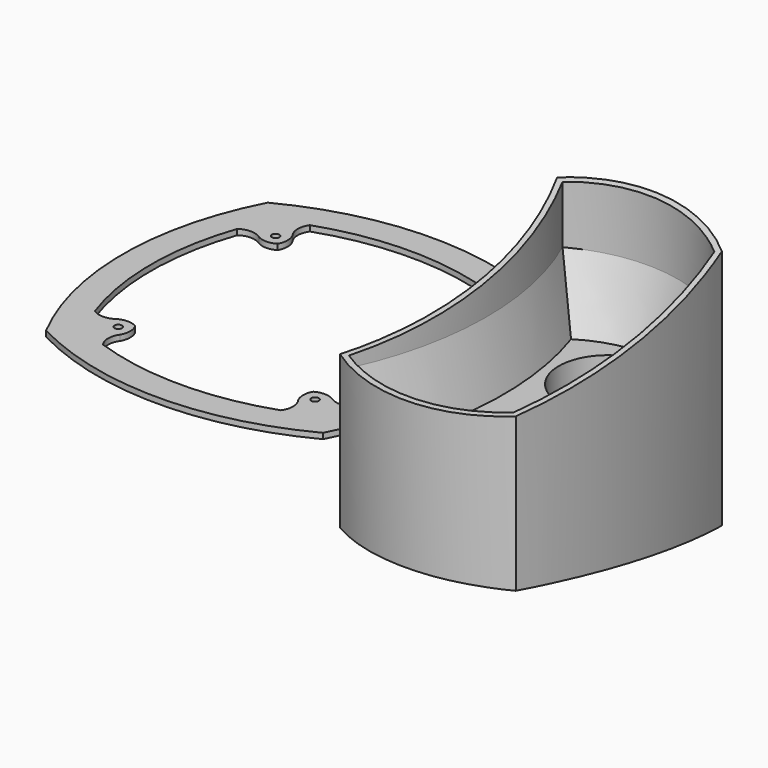
from build123d import *

# Parameters (mm, degrees)
F0_R     = 2
F1_DEPTH = 1.5
F3_DEPTH = 70
F4_R     = 1379.34181
F5_DEPTH = 1210
F2_R     = 31.19375
F2_R_2   = 26.19375
F6_DEPTH = 35


with BuildPart() as f1:
    # F0 (on Top) → F1 (new body, symmetric)
    with BuildSketch(Plane.XY):
        with BuildLine():
            ThreePointArc((73.933257, -73.933257), (92.039376, 0), (73.933257, 73.933257))
            ThreePointArc((73.933257, 73.933257), (0, 92.039376), (-73.933257, 73.933257))
            ThreePointArc((-73.933257, 73.933257), (-92.039376, 0), (-73.933257, -73.933257))
            ThreePointArc((-73.933257, -73.933257), (0, -92.039376), (73.933257, -73.933257))
        make_face()
        with BuildLine():
            ThreePointArc((47.5, 69.038464), (55.217238, 66.114193), (62.755609, 62.755609))
            ThreePointArc((62.755609, 62.755609), (66.114193, 55.217238), (69.038464, 47.5))
            ThreePointArc((69.038464, 47.5), (77.039376, 0), (69.038464, -47.5))
            ThreePointArc((69.038464, -47.5), (66.114193, -55.217238), (62.755609, -62.755609))
            ThreePointArc((62.755609, -62.755609), (55.217238, -66.114193), (47.5, -69.038464))
            ThreePointArc((47.5, -69.038464), (0, -77.039376), (-47.5, -69.038464))
            ThreePointArc((-47.5, -69.038464), (-55.217238, -66.114193), (-62.755609, -62.755609))
            ThreePointArc((-62.755609, -62.755609), (-66.114193, -55.217238), (-69.038464, -47.5))
            ThreePointArc((-69.038464, -47.5), (-77.039376, 0), (-69.038464, 47.5))
            ThreePointArc((-69.038464, 47.5), (-66.114193, 55.217238), (-62.755609, 62.755609))
            ThreePointArc((-62.755609, 62.755609), (-55.217238, 66.114193), (-47.5, 69.038464))
            ThreePointArc((-47.5, 69.038464), (0, 77.039376), (47.5, 69.038464))
        make_face(mode=Mode.SUBTRACT)
        with BuildLine():
            ThreePointArc((-47.5, 57.5), (-49.332016, 63.269232), (-47.5, 69.038464))
            ThreePointArc((-47.5, 69.038464), (-55.217238, 66.114193), (-62.755609, 62.755609))
            ThreePointArc((-62.755609, 62.755609), (-66.114193, 55.217238), (-69.038464, 47.5))
            ThreePointArc((-69.038464, 47.5), (-63.269232, 49.332016), (-57.5, 47.5))
            ThreePointArc((-57.5, 47.5), (-58.839746, 52.5), (-57.5, 57.5))
            ThreePointArc((-57.5, 57.5), (-52.5, 58.839746), (-47.5, 57.5))
        make_face()
        with BuildLine():
            ThreePointArc((-47.5, 47.5), (-46.160254, 52.5), (-47.5, 57.5))
            ThreePointArc((-47.5, 57.5), (-52.5, 58.839746), (-57.5, 57.5))
            ThreePointArc((-57.5, 57.5), (-58.839746, 52.5), (-57.5, 47.5))
            ThreePointArc((-57.5, 47.5), (-52.5, 46.160254), (-47.5, 47.5))
        make_face()
        with Locations((-52.5, 52.5)):
            Circle(F0_R, mode=Mode.SUBTRACT)
        with BuildLine():
            ThreePointArc((69.038464, 47.5), (66.114193, 55.217238), (62.755609, 62.755609))
            ThreePointArc((62.755609, 62.755609), (55.217238, 66.114193), (47.5, 69.038464))
            ThreePointArc((47.5, 69.038464), (49.332016, 63.269232), (47.5, 57.5))
            ThreePointArc((47.5, 57.5), (52.5, 58.839746), (57.5, 57.5))
            ThreePointArc((57.5, 57.5), (58.839746, 52.5), (57.5, 47.5))
            ThreePointArc((57.5, 47.5), (63.269232, 49.332016), (69.038464, 47.5))
        make_face()
        with BuildLine():
            ThreePointArc((57.5, 57.5), (52.5, 58.839746), (47.5, 57.5))
            ThreePointArc((47.5, 57.5), (46.160254, 52.5), (47.5, 47.5))
            ThreePointArc((47.5, 47.5), (52.5, 46.160254), (57.5, 47.5))
            ThreePointArc((57.5, 47.5), (58.839746, 52.5), (57.5, 57.5))
        make_face()
        with Locations((52.5, 52.5)):
            Circle(F0_R, mode=Mode.SUBTRACT)
        with BuildLine():
            ThreePointArc((62.755609, -62.755609), (66.114193, -55.217238), (69.038464, -47.5))
            ThreePointArc((69.038464, -47.5), (63.269232, -49.332016), (57.5, -47.5))
            ThreePointArc((57.5, -47.5), (58.839746, -52.5), (57.5, -57.5))
            ThreePointArc((57.5, -57.5), (52.5, -58.839746), (47.5, -57.5))
            ThreePointArc((47.5, -57.5), (49.332016, -63.269232), (47.5, -69.038464))
            ThreePointArc((47.5, -69.038464), (55.217238, -66.114193), (62.755609, -62.755609))
        make_face()
        with BuildLine():
            ThreePointArc((57.5, -57.5), (58.839746, -52.5), (57.5, -47.5))
            ThreePointArc((57.5, -47.5), (52.5, -46.160254), (47.5, -47.5))
            ThreePointArc((47.5, -47.5), (46.160254, -52.5), (47.5, -57.5))
            ThreePointArc((47.5, -57.5), (52.5, -58.839746), (57.5, -57.5))
        make_face()
        with Locations((52.5, -52.5)):
            Circle(F0_R, mode=Mode.SUBTRACT)
        with BuildLine():
            ThreePointArc((-57.5, -47.5), (-63.269232, -49.332016), (-69.038464, -47.5))
            ThreePointArc((-69.038464, -47.5), (-66.114193, -55.217238), (-62.755609, -62.755609))
            ThreePointArc((-62.755609, -62.755609), (-55.217238, -66.114193), (-47.5, -69.038464))
            ThreePointArc((-47.5, -69.038464), (-49.332016, -63.269232), (-47.5, -57.5))
            ThreePointArc((-47.5, -57.5), (-52.5, -58.839746), (-57.5, -57.5))
            ThreePointArc((-57.5, -57.5), (-58.839746, -52.5), (-57.5, -47.5))
        make_face()
        with BuildLine():
            ThreePointArc((-47.5, -47.5), (-52.5, -46.160254), (-57.5, -47.5))
            ThreePointArc((-57.5, -47.5), (-58.839746, -52.5), (-57.5, -57.5))
            ThreePointArc((-57.5, -57.5), (-52.5, -58.839746), (-47.5, -57.5))
            ThreePointArc((-47.5, -57.5), (-46.160254, -52.5), (-47.5, -47.5))
        make_face()
        with Locations((-52.5, -52.5)):
            Circle(F0_R, mode=Mode.SUBTRACT)
    extrude(amount=F1_DEPTH, both=True)


with BuildPart() as f3:
    # F2 (on Top) → F3 (new body, symmetric)
    with BuildSketch(Plane.XY):
        with BuildLine():
            ThreePointArc((174.768302, -71.355929), (185.006277, -4.092311), (176.949372, 63.467268))
            ThreePointArc((176.949372, 63.467268), (131.287386, 81.364594), (83.493642, 70.360539))
            ThreePointArc((83.493642, 70.360539), (99.032985, -1.460991), (82.239415, -72.999647))
            ThreePointArc((82.239415, -72.999647), (128.754204, -86.27037), (174.768302, -71.355929))
        make_face()
        with BuildLine():
            ThreePointArc((172.18752, -69.490065), (129.491328, -83.252895), (86.099817, -71.870583))
            ThreePointArc((86.099817, -71.870583), (102.032502, -1.528788), (87.367492, 69.088178))
            ThreePointArc((87.367492, 69.088178), (131.921845, 78.305036), (174.296209, 61.738377))
            ThreePointArc((174.296209, 61.738377), (182.007106, -4.016691), (172.18752, -69.490065))
        make_face(mode=Mode.SUBTRACT)
    extrude(amount=F3_DEPTH, both=True)

    # F4 (on Right) → F5 (cut)
    with BuildSketch(Plane.YZ):
        with Locations((-240, 1410)):
            Circle(F4_R)
        with Locations((-240, -1410)):
            Circle(F4_R)
    extrude(amount=F5_DEPTH, mode=Mode.SUBTRACT)

    # F2 (on Top) → F6 (join, symmetric)
    with BuildSketch(Plane.XY):
        with BuildLine():
            ThreePointArc((87.367492, 69.088178), (102.032502, -1.528788), (86.099817, -71.870583))
            ThreePointArc((86.099817, -71.870583), (129.491328, -83.252895), (172.18752, -69.490065))
            ThreePointArc((172.18752, -69.490065), (182.007106, -4.016691), (174.296209, 61.738377))
            ThreePointArc((174.296209, 61.738377), (131.921845, 78.305036), (87.367492, 69.088178))
        make_face()
        with Locations((137.737056, -42.290242)):
            Circle(F2_R, mode=Mode.SUBTRACT)
        with Locations((139.182257, 34.522846)):
            Circle(F2_R, mode=Mode.SUBTRACT)
        with Locations((139.182257, 34.522846)):
            Circle(F2_R)
        with Locations((139.182257, 34.522846)):
            Circle(F2_R_2, mode=Mode.SUBTRACT)
        with Locations((137.737056, -42.290242)):
            Circle(F2_R)
        with Locations((137.737056, -42.290242)):
            Circle(F2_R_2, mode=Mode.SUBTRACT)
    extrude(amount=F6_DEPTH, both=True)

    # F9 (on offset) → F10 section 0
    with BuildSketch(Plane.XY.offset(1.5)):
        with BuildLine():
            ThreePointArc((98.808191, -65.032023), (131.814351, -74.178902), (164.447099, -63.778148))
            ThreePointArc((164.447099, -63.778148), (173.009641, -3.785908), (166.335948, 56.44571))
            ThreePointArc((166.335948, 56.44571), (134.116729, 65.960947), (101.83327, 56.665998))
            ThreePointArc((101.83327, 56.665998), (110.984106, -4.448075), (98.808191, -65.032023))
        make_face()
    # F7 (on face) → F10 section 1
    with BuildSketch(Plane.XY.offset(35)):
        with BuildLine():
            ThreePointArc((172.18752, -69.490065), (182.007106, -4.016691), (174.296209, 61.738377))
            ThreePointArc((174.296209, 61.738377), (131.921845, 78.305036), (87.367492, 69.088178))
            ThreePointArc((87.367492, 69.088178), (102.032502, -1.528788), (86.099817, -71.870583))
            ThreePointArc((86.099817, -71.870583), (129.491328, -83.252895), (172.18752, -69.490065))
        make_face()
    loft(mode=Mode.SUBTRACT)


solid = Compound([f1.part, f3.part])
